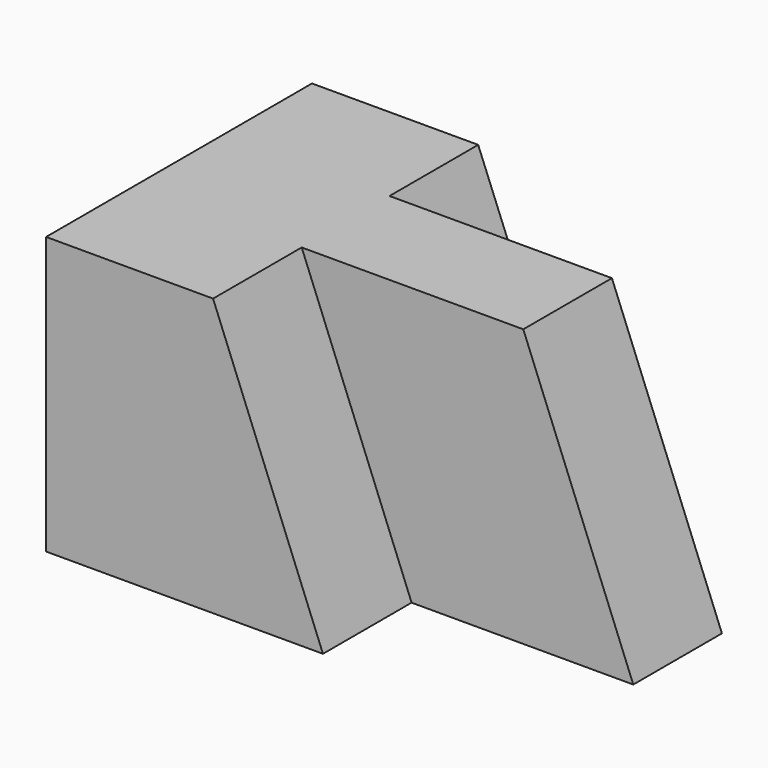
from build123d import *

# Parameters (mm, degrees)
F0_W     = 57.15
F0_H     = 31.75
F1_DEPTH = 38.1
F4_DEPTH = 177.8
F5_DEPTH = 12.7
F6_DEPTH = 12.7


with BuildPart() as f1:
    # F0 (on Front) → F1 (new body)
    with BuildSketch(Plane.XZ):
        with Locations((28.575, 15.875)):
            Rectangle(F0_W, F0_H)
    extrude(amount=F1_DEPTH)

    # F3 (on face) → F4 (cut)
    with BuildSketch(Plane.XZ.offset(38.1)):
        Polygon((57.15, 31.75), (44.541387, 31.75), (57.15, 0), align=None)
    extrude(amount=-F4_DEPTH, mode=Mode.SUBTRACT)

    # F3 (on face) → F5 (cut)
    with BuildSketch(Plane.XZ.offset(38.1)):
        Polygon((44.541387, 31.75), (19.141387, 31.75), (31.737559, 0), (57.137559, 0), (57.15, 0), align=None)
    extrude(amount=-F5_DEPTH, mode=Mode.SUBTRACT)

    # F2 (on face) → F6 (cut)
    with BuildSketch(Plane(origin=(0, 0, 0), x_dir=(-1, 0, 0), z_dir=(0, 1, 0))):
        Polygon((-31.75, 0), (-19.05, 31.75), (-57.15, 31.75), (-57.15, 0), align=None)
    extrude(amount=-F6_DEPTH, mode=Mode.SUBTRACT)


solid = f1.part
